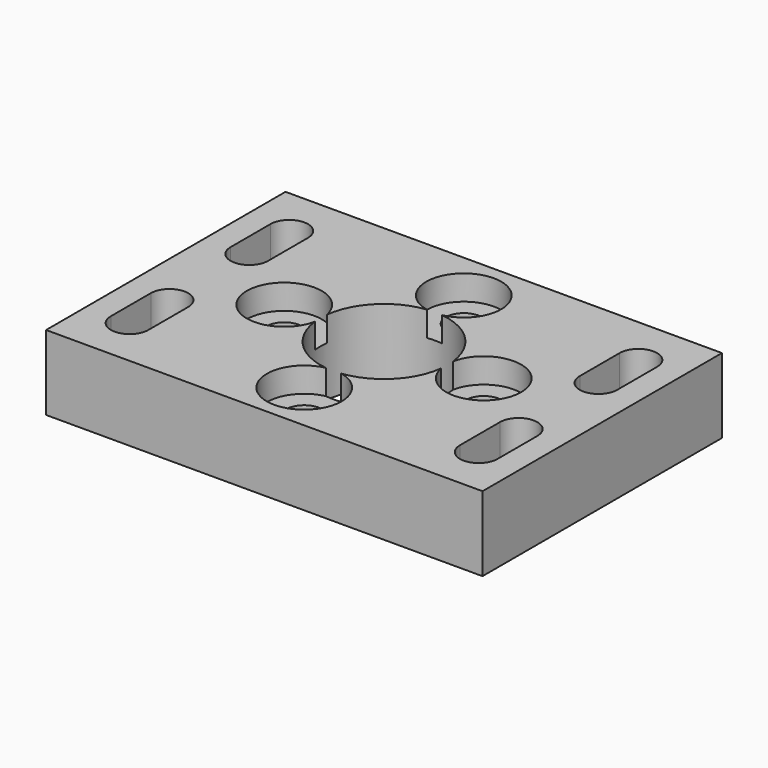
from build123d import *

# Parameters (mm, degrees)
SKETCH003_W     = 35
SKETCH003_H     = 24
SKETCH003_R     = 5.1
SKETCH003_R_2   = 1.45
PAD003_DEPTH    = 6
SKETCH004_R     = 3
POCKET_DEPTH    = 2
POCKET001_DEPTH = 6.001


with BuildPart() as part:
    # Sketch003 → Pad003 (new body)
    with BuildSketch(Plane.XY):
        Rectangle(SKETCH003_W, SKETCH003_H)
        Circle(SKETCH003_R, mode=Mode.SUBTRACT)
        with Locations((-8, 0)):
            Circle(SKETCH003_R_2, mode=Mode.SUBTRACT)
        with Locations((8, 0)):
            Circle(SKETCH003_R_2, mode=Mode.SUBTRACT)
        with Locations((0, 8)):
            Circle(SKETCH003_R_2, mode=Mode.SUBTRACT)
        with Locations((0, -8)):
            Circle(SKETCH003_R_2, mode=Mode.SUBTRACT)
    extrude(amount=PAD003_DEPTH)

    # Sketch004 (on Face11 of Pad003) → Pocket (cut)
    with BuildSketch(Plane.XY.offset(6)):
        with Locations((-8, 0)):
            Circle(SKETCH004_R)
        with Locations((0, -8)):
            Circle(SKETCH004_R)
        with Locations((8, 0)):
            Circle(SKETCH004_R)
        with Locations((0, 8)):
            Circle(SKETCH004_R)
    extrude(amount=-POCKET_DEPTH, mode=Mode.SUBTRACT)

    # Sketch005 (on Face5 of Pocket) → Pocket001 (cut, through all)
    with BuildSketch(Plane.XY.offset(6)):
        with BuildLine():
            ThreePointArc((-15.5, 4), (-14, 2.5), (-12.5, 4))
            Line((-12.5, 4), (-12.5, 8))
            ThreePointArc((-12.5, 8), (-14, 9.5), (-15.5, 8))
            Line((-15.5, 4), (-15.5, 8))
        make_face()
        with BuildLine():
            ThreePointArc((12.5, 4), (14, 2.5), (15.5, 4))
            Line((15.5, 4), (15.5, 8))
            ThreePointArc((15.5, 8), (14, 9.5), (12.5, 8))
            Line((12.5, 4), (12.5, 8))
        make_face()
        with BuildLine():
            ThreePointArc((-12.5, -4), (-14, -2.5), (-15.5, -4))
            Line((-15.5, -4), (-15.5, -8))
            ThreePointArc((-15.5, -8), (-14, -9.5), (-12.5, -8))
            Line((-12.5, -4), (-12.5, -8))
        make_face()
        with BuildLine():
            ThreePointArc((15.5, -4), (14, -2.5), (12.5, -4))
            Line((12.5, -4), (12.5, -8))
            ThreePointArc((12.5, -8), (14, -9.5), (15.5, -8))
            Line((15.5, -4), (15.5, -8))
        make_face()
    extrude(amount=-POCKET001_DEPTH, mode=Mode.SUBTRACT)


solid = part.part
